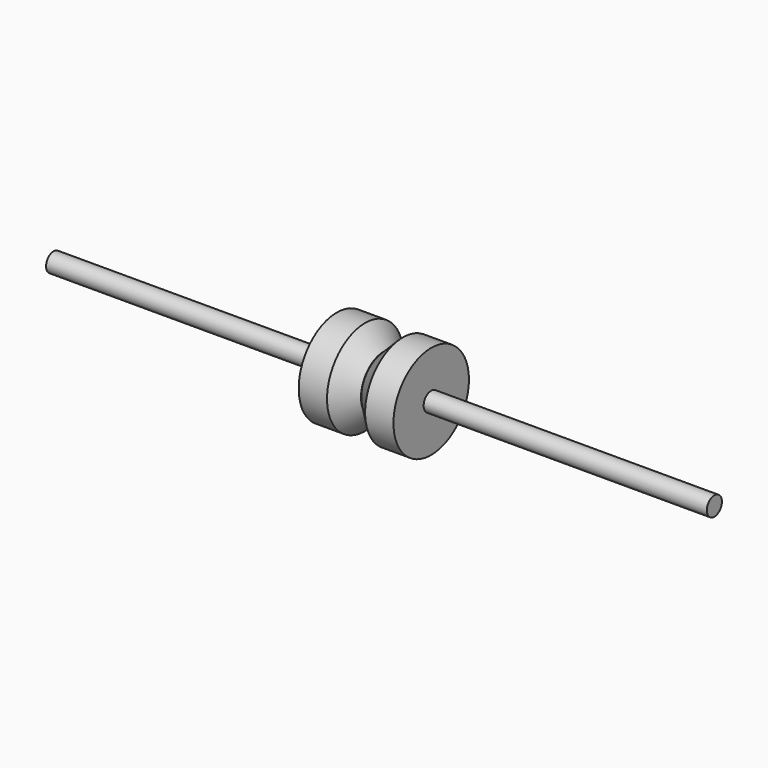
from build123d import *

# Parameters (mm, degrees)
F0_R     = 0.5
F1_DEPTH = 17.5
F2_R     = 2.5
F3_DEPTH = 2.5
F4_SIZE  = 1
F5_R     = 2.522448
F6_DEPTH = 2.5
F7_SIZE  = 1


with BuildPart() as f1:
    # F0 (on Right) → F1 (new body, symmetric)
    with BuildSketch(Plane.YZ):
        Circle(F0_R)
    extrude(amount=F1_DEPTH, both=True)

    # F2 (on Right) → F3 (join)
    with BuildSketch(Plane.YZ):
        Circle(F2_R)
    extrude(amount=F3_DEPTH)

    # F4
    f4_edges = [f1.edges().sort_by_distance(p)[0] for p in [
        (0, -2.5, 0),
    ]]
    chamfer(f4_edges, length=F4_SIZE)

    # F5 (on Right) → F6 (join)
    with BuildSketch(Plane.YZ):
        Circle(F5_R)
    extrude(amount=-F6_DEPTH)

    # F7
    f7_edges = [f1.edges().sort_by_distance(p)[0] for p in [
        (0, -2.522448, 0),
    ]]
    chamfer(f7_edges, length=F7_SIZE)


solid = f1.part
